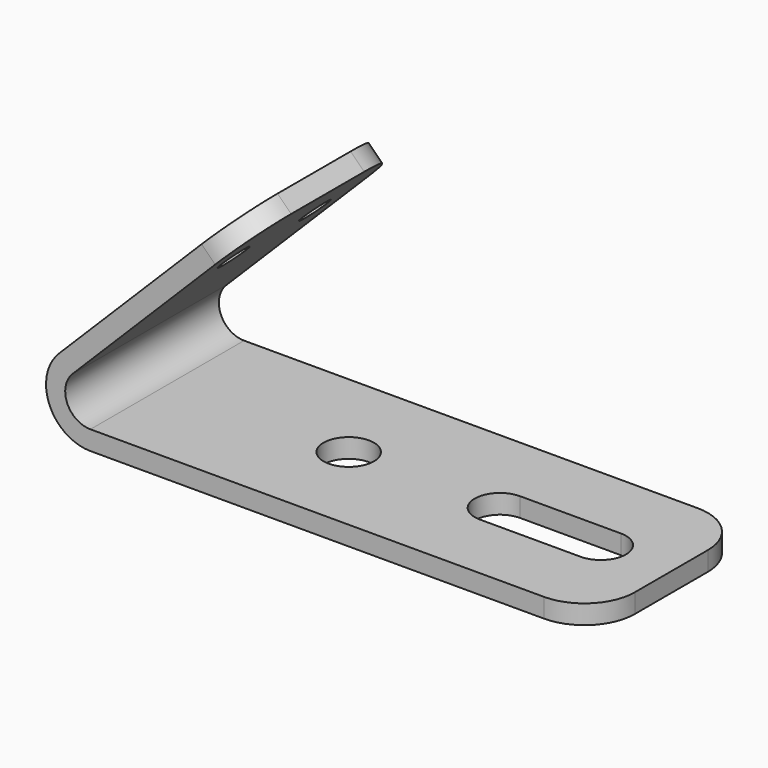
from build123d import *

# Parameters (mm, degrees)
F1_DEPTH = 483.87
F2_R     = 63.5
F3_DEPTH = 48.261
F4_R     = 38.1
F5_DEPTH = 48.26
F6_R     = 127


with BuildPart() as f1:
    # F0 (on Front) → F1 (new body)
    with BuildSketch(Plane.XZ):
        with BuildLine():
            Line((-1270, 0), (0, 0))
            Line((0, 0), (0, 48.26))
            Line((0, 48.26), (-1270, 48.26))
            ThreePointArc((-1270, 48.26), (-1328.66635, 87.459602), (-1314.901281, 156.661281))
            Line((-1314.901281, 156.661281), (-865.888475, 605.674087))
            Line((-865.888475, 605.674087), (-900.013448, 639.79906))
            Line((-900.013448, 639.79906), (-1349.026254, 190.786254))
            ThreePointArc((-1349.026254, 190.786254), (-1373.252777, 68.9913), (-1270, 0))
        make_face()
    extrude(amount=-F1_DEPTH)

    # F2 (on face) → F3 (cut, through all)
    with BuildSketch(Plane.XY.offset(48.26)):
        with Locations((-812.8, 241.935)):
            Circle(F2_R)
        with BuildLine():
            ThreePointArc((-431.8, 305.435), (-495.3, 241.935), (-431.8, 178.435))
            Line((-431.8, 178.435), (-177.8, 178.435))
            ThreePointArc((-177.8, 178.435), (-114.3, 241.935), (-177.8, 305.435))
            Line((-177.8, 305.435), (-431.8, 305.435))
        make_face()
    extrude(amount=-F3_DEPTH, mode=Mode.SUBTRACT)

    # F4 (on face) → F5 (cut, through all)
    with BuildSketch(Plane(origin=(-769.906254, 0, 769.906254), x_dir=(0, -1, 0), z_dir=(-0.707107, 0, 0.707107))):
        with Locations((-369.57, -374.499358)):
            Circle(F4_R)
        with Locations((-114.3, -374.499358)):
            Circle(F4_R)
    extrude(amount=-F5_DEPTH, mode=Mode.SUBTRACT)

    # F6
    f6_edges = [f1.edges().sort_by_distance(p)[0] for p in [
        (0, 483.87, 24.13),
        (0, 0, 24.13),
        (-882.950961, 0, 622.736573),
        (-882.950961, 483.87, 622.736573),
    ]]
    fillet(f6_edges, radius=F6_R)


solid = f1.part
